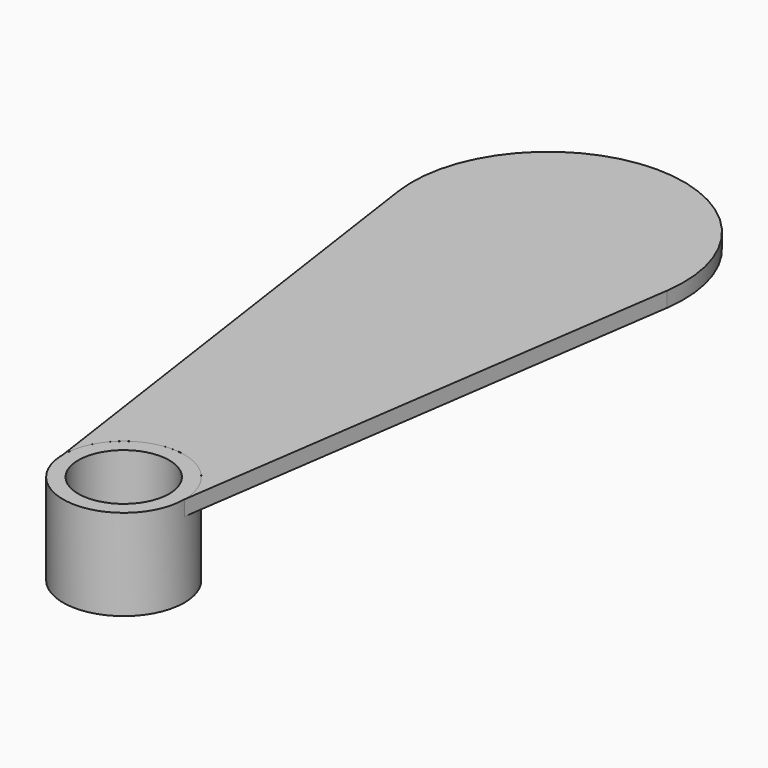
from build123d import *

# Parameters (mm, degrees)
F0_R     = 4
F0_R_2   = 3
F1_DEPTH = 6
F3_DEPTH = 1


with BuildPart() as f1:
    # F0 (on Top) → F1 (new body)
    with BuildSketch(Plane.XY):
        Circle(F0_R)
        Circle(F0_R_2, mode=Mode.SUBTRACT)
    extrude(amount=F1_DEPTH)


with BuildPart() as f3:
    # F2 (on face) → F3 (new body)
    with BuildSketch(Plane.XY.offset(6)):
        with BuildLine():
            Line((-8.86817, 33.719687), (-4, 0))
            ThreePointArc((-4, 0), (0, 4), (4, 0))
            Line((4, 0), (8.86817, 33.719687))
            ThreePointArc((8.86817, 33.719687), (0, 43.960114), (-8.86817, 33.719687))
        make_face()
    extrude(amount=-F3_DEPTH)


solid = Compound([f1.part, f3.part])
